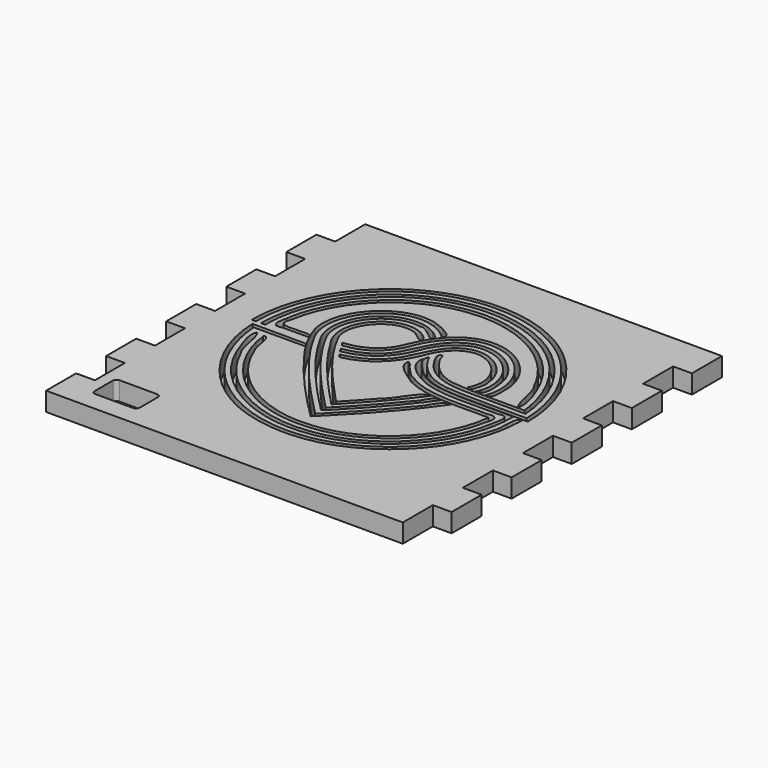
from build123d import *

# Parameters (mm, degrees)
F0_W     = 100
F0_H     = 100
F1_DEPTH = 5
F2_W     = 5
F2_H     = 10
F2_W_2   = 10
F3_DEPTH = 5
F4_W     = 5
F4_H     = 10
F5_DEPTH = 5
F7_DEPTH = 4.7
F8_W     = 12
F8_H     = 8
F9_DEPTH = 5
F10_R    = 1


with BuildPart() as f1:
    # F0 (on Top) → F1 (new body)
    with BuildSketch(Plane.XY):
        Rectangle(F0_W, F0_H)
    extrude(amount=F1_DEPTH)

    # F2 (on face) → F3 (cut)
    with BuildSketch(Plane.XY.offset(5)):
        with Locations((-47.5, 45)):
            Rectangle(F2_W, F2_H)
        with Locations((-50, 25)):
            Rectangle(F2_W_2, F2_H)
        with Locations((-50, 5)):
            Rectangle(F2_W_2, F2_H)
        with Locations((-50, -15)):
            Rectangle(F2_W_2, F2_H)
        with Locations((-50, -35)):
            Rectangle(F2_W_2, F2_H)
    extrude(amount=-F3_DEPTH, mode=Mode.SUBTRACT)

    # F4 (on face) → F5 (cut)
    with BuildSketch(Plane.XY.offset(5)):
        with Locations((47.5, -45)):
            Rectangle(F4_W, F4_H)
        with Locations((47.5, -25)):
            Rectangle(F4_W, F4_H)
        with Locations((47.5, -5)):
            Rectangle(F4_W, F4_H)
        with Locations((47.5, 15)):
            Rectangle(F4_W, F4_H)
        with Locations((47.5, 35)):
            Rectangle(F4_W, F4_H)
    extrude(amount=-F5_DEPTH, mode=Mode.SUBTRACT)

    # F6 (on face) → F7 (cut)
    with BuildSketch(Plane.XY.offset(5)):
        with BuildLine():
            add(Edge.make_bspline(
                [(-36.5395562195, 1.6876631507), (-35.3572678265, 1.5749111306), (-35.3377593665, 1.6597291445), (-35.3989568963, 2.8725999949)],
                knots=[0, 0, 0, 0, 1, 1, 1, 1], degree=3))
            add(Edge.make_bspline(
                [(-35.3989568963, 2.8725999949), (-35.1816590716, 17.512665054), (-24.8415175873, 31.2447338924), (-10.8813866528, 35.6124949842)],
                knots=[0, 0, 0, 0, 1, 1, 1, 1], degree=3))
            add(Edge.make_bspline(
                [(-10.8813866528, 35.6124949842), (2.1847364165, 40.0246794169), (17.5859936415, 35.952114074), (26.6768478813, 25.5539777916)],
                knots=[0, 0, 0, 0, 1, 1, 1, 1], degree=3))
            add(Edge.make_bspline(
                [(26.6768478813, 25.5539777916), (32.295048774, 19.3572851001), (35.5793370518, 11.1215324389), (35.7913961651, 2.7619559891)],
                knots=[0, 0, 0, 0, 1, 1, 1, 1], degree=3))
            add(Edge.make_bspline(
                [(35.7913961651, 2.7619559891), (28.621721093, 2.895578384), (21.4209936363, 2.4702076439), (14.2781943396, 3.1484988125)],
                knots=[0, 0, 0, 0, 1, 1, 1, 1], degree=3))
            add(Edge.make_bspline(
                [(14.2781943396, 3.1484988125), (9.2838404044, 3.6290439664), (4.8619188998, 6.9295454652), (2.8803586356, 11.5200696388)],
                knots=[0, 0, 0, 0, 1, 1, 1, 1], degree=3))
            add(Edge.make_bspline(
                [(2.8803586356, 11.5200696388), (1.2928440741, 9.4131552578), (4.7107359756, 7.1077172619), (5.9871710618, 5.5225294001)],
                knots=[0, 0, 0, 0, 1, 1, 1, 1], degree=3))
            add(Edge.make_bspline(
                [(5.9871710618, 5.5225294001), (11.5143537879, 0.7832400426), (19.2343698443, 1.863891651), (25.9608644582, 1.7043850733)],
                knots=[0, 0, 0, 0, 1, 1, 1, 1], degree=3))
            add(Edge.make_bspline(
                [(25.9608644582, 1.7043850733), (29.6132480872, 1.6970159393), (33.2656270234, 1.6903901479), (36.9180106525, 1.6833335557)],
                knots=[0, 0, 0, 0, 1, 1, 1, 1], degree=3))
            add(Edge.make_bspline(
                [(36.9180106525, 1.6833335557), (37.0693259142, 15.6138457619), (28.5300656415, 29.1217550528), (15.8747993611, 34.9463428483)],
                knots=[0, 0, 0, 0, 1, 1, 1, 1], degree=3))
            add(Edge.make_bspline(
                [(15.8747993611, 34.9463428483), (2.7448633366, 41.3518533228), (-14.0656352883, 38.7972455754), (-24.6773796663, 28.7501649591)],
                knots=[0, 0, 0, 0, 1, 1, 1, 1], degree=3))
            add(Edge.make_bspline(
                [(-24.6773796663, 28.7501649591), (-32.1913546808, 21.909966152), (-36.5760956829, 11.8442472417), (-36.5395562195, 1.6876631507)],
                knots=[0, 0, 0, 0, 1, 1, 1, 1], degree=3))
        make_face()
        with BuildLine():
            add(Edge.make_bspline(
                [(33.0787311734, 6.1918534026), (33.1137716452, 6.6147135869), (33.0010728561, 7.1602593809), (32.8292100588, 7.7466558997)],
                knots=[0.2859726672, 0.2859726672, 0.2859726672, 0.2859726672, 0.501172555, 0.501172555, 0.501172555, 0.501172555], degree=3))
            add(Edge.make_bspline(
                [(33.0787311734, 6.1918534026), (33.1234892028, 5.8623369525), (33.1631998259, 5.5320942247), (33.1978064006, 5.2012608759)],
                knots=[0.9485005007, 0.9485005007, 0.9485005007, 0.9485005007, 1, 1, 1, 1], degree=3))
            add(Edge.make_bspline(
                [(33.1978064006, 5.2012608759), (26.8402518453, 5.3403574443), (20.443765662, 4.8890161736), (14.1213415512, 5.6443310528)],
                knots=[0, 0, 0, 0, 1, 1, 1, 1], degree=3))
            add(Edge.make_bspline(
                [(14.1213415512, 5.6443310528), (10.5936479246, 6.0204004226), (7.6638392312, 8.2218811246), (5.8446397971, 11.1444523875)],
                knots=[0, 0, 0, 0, 0.7773729017, 0.7773729017, 0.7773729017, 0.7773729017], degree=3))
            add(Edge.make_bspline(
                [(4.8817393194, 12.99620988), (5.0065372614, 12.3721532189), (5.3162220017, 11.7410156656), (5.8446397971, 11.1444523875)],
                knots=[0.7452959455, 0.7452959455, 0.7452959455, 0.7452959455, 0.9452348885, 0.9452348885, 0.9452348885, 0.9452348885], degree=3))
            add(Edge.make_bspline(
                [(4.8817393194, 12.99620988), (4.7681025332, 13.2631178085), (4.6630795201, 13.5335573495), (4.5669766219, 13.8068686956)],
                knots=[0.9345258188, 0.9345258188, 0.9345258188, 0.9345258188, 1, 1, 1, 1], degree=3))
            add(Edge.make_bspline(
                [(4.5669766219, 13.8068686956), (2.3844731252, 13.9721962462), (5.4550663729, 9.4091386739), (6.6917903539, 8.2247339954)],
                knots=[0, 0, 0, 0, 1, 1, 1, 1], degree=3))
            add(Edge.make_bspline(
                [(6.6917903539, 8.2247339954), (11.2337701288, 3.3645942197), (18.4090296558, 4.2640879905), (24.4320847524, 4.1457538619)],
                knots=[0, 0, 0, 0, 1, 1, 1, 1], degree=3))
            add(Edge.make_bspline(
                [(24.4320847524, 4.1457538619), (27.7443703894, 4.1380351129), (31.0566560265, 4.1306026259), (34.3689416635, 4.123010583)],
                knots=[0, 0, 0, 0, 1, 1, 1, 1], degree=3))
            add(Edge.make_bspline(
                [(34.3689416635, 4.123010583), (33.5948658318, 18.1382901207), (23.2689835959, 30.9711139078), (9.7103543153, 34.6751868283)],
                knots=[0, 0, 0, 0, 1, 1, 1, 1], degree=3))
            add(Edge.make_bspline(
                [(9.7103543153, 34.6751868283), (-3.6515909355, 38.7506437691), (-19.1041284729, 33.5082837844), (-27.2934902701, 22.2187470844)],
                knots=[0, 0, 0, 0, 1, 1, 1, 1], degree=3))
            add(Edge.make_bspline(
                [(-27.2934902701, 22.2187470844), (-31.718701441, 16.3458180892), (-34.079176703, 9.0276556481), (-34.1087042733, 1.6876631507)],
                knots=[0, 0, 0, 0, 1, 1, 1, 1], degree=3))
            add(Edge.make_bspline(
                [(-34.1087042733, 1.6876631507), (-32.9661503909, 1.6018375885), (-32.8808531228, 1.6024875439), (-32.958495171, 2.825671803)],
                knots=[0, 0, 0, 0, 1, 1, 1, 1], degree=3))
            add(Edge.make_bspline(
                [(-32.958495171, 2.825671803), (-32.7573757818, 17.1621030138), (-22.0785315979, 30.4505512076), (-8.1758647036, 33.860569497)],
                knots=[0, 0, 0, 0, 1, 1, 1, 1], degree=3))
            add(Edge.make_bspline(
                [(-8.1758647036, 33.860569497), (4.0473754804, 37.1782678904), (17.8928148526, 32.7008997299), (25.823186529, 22.8120329956)],
                knots=[0, 0, 0, 0, 1, 1, 1, 1], degree=3))
            add(Edge.make_bspline(
                [(25.823186529, 22.8120329956), (29.3840473124, 18.4887046576), (31.8095355186, 13.2510117478), (32.8292100588, 7.7466558997)],
                knots=[0, 0, 0, 0, 0.8671906957, 0.8671906957, 0.8671906957, 0.8671906957], degree=3))
        make_face()
        with BuildLine():
            add(Edge.make_bspline(
                [(30.6178430197, 6.6233786063), (30.5714202799, 6.9321929712), (30.4514505011, 7.2897525522), (30.2308265701, 7.6850631899)],
                knots=[0.8345712642, 0.8345712642, 0.8345712642, 0.8345712642, 0.9954854291, 0.9954854291, 0.9954854291, 0.9954854291], degree=3))
            add(Edge.make_bspline(
                [(30.6178430197, 6.6233786063), (30.8444613919, 6.1192176539), (31.1200937005, 5.6841262806), (31.4719048249, 5.3480621149)],
                knots=[0.8260664495, 0.8260664495, 0.8260664495, 0.8260664495, 1, 1, 1, 1], degree=3))
            add(Edge.make_bspline(
                [(31.4719048249, 5.3480621149), (31.9976272797, 8.6541433757), (29.885534842, 13.4981839659), (28.1818725364, 16.9047145521)],
                knots=[0, 0, 0, 0, 1, 1, 1, 1], degree=3))
            add(Edge.make_bspline(
                [(28.1818725364, 16.9047145521), (22.1022267332, 28.4967588238), (8.3971486443, 35.3485752328), (-4.524776762, 33.2305125318)],
                knots=[0, 0, 0, 0, 1, 1, 1, 1], degree=3))
            add(Edge.make_bspline(
                [(-4.524776762, 33.2305125318), (-17.9376864984, 31.4247255644), (-29.3374063693, 20.1460175447), (-31.2512774096, 6.7392863741)],
                knots=[0, 0, 0, 0, 1, 1, 1, 1], degree=3))
            add(Edge.make_bspline(
                [(-31.2512774096, 6.7392863741), (-31.686498558, 4.9525921634), (-32.065498463, 3.0072795158), (-30.657212939, 2.7670115632)],
                knots=[0, 0, 0, 0, 0.808571503, 0.808571503, 0.808571503, 0.808571503], degree=3))
            add(Edge.make_bspline(
                [(-29.9886792699, 2.7670115632), (-30.211523829, 2.7670115632), (-30.4343683858, 2.7670115632), (-30.657212939, 2.7670115632)],
                knots=[0.7172296446, 0.7172296446, 0.7172296446, 0.7172296446, 0.8243837938, 0.8243837938, 0.8243837938, 0.8243837938], degree=3))
            add(Edge.make_bspline(
                [(-29.9886792699, 2.7670115632), (-29.7920819398, 2.7927651891), (-29.5743015592, 2.8390261836), (-29.3334789489, 2.9077961388)],
                knots=[0.9171953985, 0.9171953985, 0.9171953985, 0.9171953985, 1, 1, 1, 1], degree=3))
            add(Edge.make_bspline(
                [(-29.3334789489, 2.9077961388), (-27.0585503783, 2.9195713607), (-24.7814255683, 2.8742584372), (-22.5080268568, 2.9541602537)],
                knots=[0, 0, 0, 0, 1, 1, 1, 1], degree=3))
            add(Edge.make_bspline(
                [(-22.5080268568, 2.9541602537), (-22.7903792394, 4.7511617944), (-24.8759356618, 3.7150192295), (-26.1239571357, 3.9871445513)],
                knots=[0, 0, 0, 0, 1, 1, 1, 1], degree=3))
            add(Edge.make_bspline(
                [(-26.1239571357, 3.9871445513), (-28.6291365332, 3.8217710111), (-31.6756795518, 3.4093806088), (-30.1280286122, 6.8263001581)],
                knots=[0, 0, 0, 0, 1, 1, 1, 1], degree=3))
            add(Edge.make_bspline(
                [(-30.1280286122, 6.8263001581), (-28.1439468962, 20.0566540661), (-16.5578639127, 31.0066296326), (-3.2556174226, 32.2937239884)],
                knots=[0, 0, 0, 0, 1, 1, 1, 1], degree=3))
            add(Edge.make_bspline(
                [(-3.2556174226, 32.2937239884), (9.3286296093, 33.882505611), (22.3688164055, 26.7366400263), (27.7956112821, 15.2712188097)],
                knots=[0, 0, 0, 0, 1, 1, 1, 1], degree=3))
            add(Edge.make_bspline(
                [(27.7956112821, 15.2712188097), (28.8324425244, 13.927272591), (29.253719031, 12.0200315237), (29.6392246314, 10.1888854726)],
                knots=[0, 0, 0, 0, 0.4824690597, 0.4824690597, 0.4824690597, 0.4824690597], degree=3))
            add(Edge.make_bspline(
                [(30.1968149289, 7.8003827178), (30.0460015821, 8.6065182625), (29.8595237777, 9.4032614674), (29.6392246314, 10.1888854726)],
                knots=[0.0021334261, 0.0021334261, 0.0021334261, 0.0021334261, 0.0651107959, 0.0651107959, 0.0651107959, 0.0651107959], degree=3))
            add(Edge.make_bspline(
                [(30.1968149289, 7.8003827178), (30.2080216104, 7.7617339687), (30.2193562481, 7.7232912852), (30.2308265701, 7.6850631899)],
                knots=[0.7016448742, 0.7016448742, 0.7016448742, 0.7016448742, 0.7130842346, 0.7130842346, 0.7130842346, 0.7130842346], degree=3))
        make_face()
        with BuildLine():
            add(Edge.make_bspline(
                [(14.395805774, -7.4933288828), (10.4220406492, -12.4549920754), (6.1097016967, -17.1329542815), (1.6311116368, -21.6412042265)],
                knots=[0, 0, 0, 0, 0.9014475668, 0.9014475668, 0.9014475668, 0.9014475668], degree=3))
            add(Edge.make_bspline(
                [(0.7087175187, -22.5650570089), (1.0001438782, -22.4308038791), (1.3048935523, -22.1402155174), (1.6311116368, -21.6412042265)],
                knots=[0.7690580389, 0.7690580389, 0.7690580389, 0.7690580389, 0.9481885224, 0.9481885224, 0.9481885224, 0.9481885224], degree=3))
            add(Edge.make_bspline(
                [(0.7087175187, -22.5650570089), (0.5248937486, -22.7482676036), (0.3408123109, -22.9312080919), (0.1564849477, -23.1138862412)],
                knots=[0.9631806328, 0.9631806328, 0.9631806328, 0.9631806328, 1, 1, 1, 1], degree=3))
            add(Edge.make_bspline(
                [(0.1564849477, -23.1138862412), (-7.9000156299, -14.8525206421), (-16.1436484731, -6.4234472945), (-21.5759297247, 3.8672068864)],
                knots=[0, 0, 0, 0, 1, 1, 1, 1], degree=3))
            add(Edge.make_bspline(
                [(-21.5759297247, 3.8672068864), (-25.8933233747, 11.8375787457), (-19.6714823346, 22.3087304844), (-11.0311823797, 23.6084560323)],
                knots=[0, 0, 0, 0, 1, 1, 1, 1], degree=3))
            add(Edge.make_bspline(
                [(-11.0311823797, 23.6084560323), (-7.2505881149, 24.2774047365), (-3.2862160116, 22.8272677638), (-0.6510075108, 20.08054427)],
                knots=[0, 0, 0, 0, 1, 1, 1, 1], degree=3))
            add(Edge.make_bspline(
                [(-0.6510075108, 20.08054427), (-0.2027980191, 20.7944929527), (-0.4329080556, 21.439368272), (-1.0092664374, 22.0075165578)],
                knots=[0, 0, 0, 0, 0.3277615305, 0.3277615305, 0.3277615305, 0.3277615305], degree=3))
            add(Edge.make_bspline(
                [(-3.1147823229, 23.3266372647), (-2.3754454937, 22.8755729092), (-1.6709884233, 22.401861189), (-1.0092664374, 22.0075165578)],
                knots=[0.5331176851, 0.5331176851, 0.5331176851, 0.5331176851, 0.7928971249, 0.7928971249, 0.7928971249, 0.7928971249], degree=3))
            add(Edge.make_bspline(
                [(-3.1147823229, 23.3266372647), (-4.2004927381, 23.825565879), (-5.3590728001, 24.2104341661), (-6.0601597337, 24.4690181752)],
                knots=[0.6168766742, 0.6168766742, 0.6168766742, 0.6168766742, 1, 1, 1, 1], degree=3))
            add(Edge.make_bspline(
                [(-6.0601597337, 24.4690181752), (-15.9054001438, 27.0057966706), (-25.9592288581, 16.7519745504), (-23.7935402017, 6.9546933446)],
                knots=[0, 0, 0, 0, 1, 1, 1, 1], degree=3))
            add(Edge.make_bspline(
                [(-23.7935402017, 6.9546933446), (-22.0417652367, 0.5632050138), (-17.6013666952, -4.6421559046), (-13.5921401568, -9.7664619808)],
                knots=[0, 0, 0, 0, 1, 1, 1, 1], degree=3))
            add(Edge.make_bspline(
                [(-13.5921401568, -9.7664619808), (-9.305868345, -14.9892506219), (-4.6467130986, -19.8924864333), (0.1606929987, -24.635218443)],
                knots=[0, 0, 0, 0, 1, 1, 1, 1], degree=3))
            add(Edge.make_bspline(
                [(0.1606929987, -24.635218443), (0.8372698805, -23.9870181003), (1.4936911039, -23.3182866736), (2.1551411523, -22.654797126)],
                knots=[0, 0, 0, 0, 1, 1, 1, 1], degree=3))
            add(Edge.make_bspline(
                [(2.1551411523, -22.654797126), (8.5138285541, -16.2685694455), (14.6133367145, -9.5626012226), (19.7264353999, -2.1227070519)],
                knots=[0, 0, 0, 0, 1, 1, 1, 1], degree=3))
            add(Edge.make_bspline(
                [(19.7264353999, -2.1227070519), (17.0207247994, -2.0753400814), (16.343292886, -5.9399564581), (14.395805774, -7.4933288828)],
                knots=[0, 0, 0, 0, 1, 1, 1, 1], degree=3))
        make_face()
        with BuildLine():
            add(Edge.make_bspline(
                [(16.8151746263, -2.0431281012), (15.8746010853, -1.7950325509), (15.2320820091, -2.2131325841), (14.6975347425, -2.881010058)],
                knots=[0, 0, 0, 0, 0.391067305, 0.391067305, 0.391067305, 0.391067305], degree=3))
            add(Edge.make_bspline(
                [(14.4844551303, -3.1670281729), (14.5556349311, -3.0718076845), (14.6266620349, -2.976468647), (14.6975347425, -2.881010058)],
                knots=[0.930672239, 0.930672239, 0.930672239, 0.930672239, 0.9464185935, 0.9464185935, 0.9464185935, 0.9464185935], degree=3))
            add(Edge.make_bspline(
                [(14.4844551303, -3.1670281729), (13.7617885562, -4.2016970613), (13.2047665054, -5.6259759735), (12.2682317258, -6.245577246)],
                knots=[0.4443799068, 0.4443799068, 0.4443799068, 0.4443799068, 1, 1, 1, 1], degree=3))
            add(Edge.make_bspline(
                [(12.2682317258, -6.245577246), (8.4798990021, -10.9273528195), (4.4222383462, -15.3891585943), (0.1580016669, -19.6412000444)],
                knots=[0, 0, 0, 0, 1, 1, 1, 1], degree=3))
            add(Edge.make_bspline(
                [(0.1580016669, -19.6412000444), (-7.1016661909, -12.0818051102), (-14.5241959921, -4.3461572731), (-19.4241153883, 5.0138343704)],
                knots=[0, 0, 0, 0, 1, 1, 1, 1], degree=3))
            add(Edge.make_bspline(
                [(-19.4241153883, 5.0138343704), (-23.5331760234, 12.6435915583), (-15.6868818341, 22.8063476452), (-7.3157849826, 21.1339165205)],
                knots=[0, 0, 0, 0, 1, 1, 1, 1], degree=3))
            add(Edge.make_bspline(
                [(-7.3157849826, 21.1339165205), (-6.3622326594, 21.4042775688), (-5.4190088808, 20.7152079228), (-4.5517645834, 19.9680355014)],
                knots=[0, 0, 0, 0, 0.4170819022, 0.4170819022, 0.4170819022, 0.4170819022], degree=3))
            add(Edge.make_bspline(
                [(-2.7889391141, 18.584357107), (-3.3269241133, 19.1399232361), (-3.919898073, 19.5993133232), (-4.5517645834, 19.9680355014)],
                knots=[0.0100883651, 0.0100883651, 0.0100883651, 0.0100883651, 0.1453183493, 0.1453183493, 0.1453183493, 0.1453183493], degree=3))
            add(Edge.make_bspline(
                [(-2.7889391141, 18.584357107), (-2.3117017403, 18.3551880284), (-1.889024425, 18.3914162064), (-1.5400161158, 18.955390188)],
                knots=[0.723590292, 0.723590292, 0.723590292, 0.723590292, 1, 1, 1, 1], degree=3))
            add(Edge.make_bspline(
                [(-1.5400161158, 18.955390188), (-2.1714565423, 19.7316210561), (-2.9134805491, 20.37223473), (-3.7303677367, 20.8808800991)],
                knots=[0, 0, 0, 0, 0.178159851, 0.178159851, 0.178159851, 0.178159851], degree=3))
            add(Edge.make_bspline(
                [(-5.6713555629, 21.8013258224), (-4.9966877018, 21.5198110907), (-4.3453942668, 21.1977982856), (-3.7303677367, 20.8808800991)],
                knots=[0.5074908328, 0.5074908328, 0.5074908328, 0.5074908328, 0.6946637769, 0.6946637769, 0.6946637769, 0.6946637769], degree=3))
            add(Edge.make_bspline(
                [(-5.6713555629, 21.8013258224), (-9.1847385326, 23.0134208792), (-13.4182246771, 22.2938902618), (-16.307899491, 19.853565746)],
                knots=[0.311239384, 0.311239384, 0.311239384, 0.311239384, 1, 1, 1, 1], degree=3))
            add(Edge.make_bspline(
                [(-16.307899491, 19.853565746), (-21.1785910707, 16.3700668245), (-23.2446600921, 9.2260689818), (-20.1148861709, 3.9410028759)],
                knots=[0, 0, 0, 0, 1, 1, 1, 1], degree=3))
            add(Edge.make_bspline(
                [(-20.1148861709, 3.9410028759), (-14.9166752318, -5.5483003388), (-7.3699344846, -13.4958594655), (0.1577656181, -21.1663662795)],
                knots=[0, 0, 0, 0, 1, 1, 1, 1], degree=3))
            add(Edge.make_bspline(
                [(0.1577656181, -21.1663662795), (0.6945640648, -20.6578899352), (1.2110923482, -20.128699487), (1.7328474937, -19.6049714803)],
                knots=[0, 0, 0, 0, 1, 1, 1, 1], degree=3))
            add(Edge.make_bspline(
                [(1.7328474937, -19.6049714803), (6.5150285149, -14.7542509503), (11.1003082383, -9.6827349819), (15.2018777691, -4.2394397905)],
                knots=[0, 0, 0, 0, 0.8824087548, 0.8824087548, 0.8824087548, 0.8824087548], degree=3))
            add(Edge.make_bspline(
                [(16.3004991085, -2.7562636326), (15.8880858248, -3.1499607804), (15.5372437619, -3.6757780254), (15.2018777691, -4.2394397905)],
                knots=[0.2923302654, 0.2923302654, 0.2923302654, 0.2923302654, 0.5228790716, 0.5228790716, 0.5228790716, 0.5228790716], degree=3))
            add(Edge.make_bspline(
                [(16.3004991085, -2.7562636326), (16.4730074202, -2.5192683764), (16.6445735267, -2.2815605338), (16.8151746263, -2.0431281012)],
                knots=[0.962057272, 0.962057272, 0.962057272, 0.962057272, 1, 1, 1, 1], degree=3))
        make_face()
        with BuildLine():
            add(Edge.make_bspline(
                [(13.994640126, -1.7653150826), (12.912994742, -1.8758050351), (12.0317580591, -2.5154576739), (11.2362505879, -3.393563566)],
                knots=[0, 0, 0, 0, 0.336657409, 0.336657409, 0.336657409, 0.336657409], degree=3))
            add(Edge.make_bspline(
                [(10.1326831819, -4.797189123), (10.5044205586, -4.3323740014), (10.8723852337, -3.8645664329), (11.2362505879, -3.393563566)],
                knots=[0.7748118653, 0.7748118653, 0.7748118653, 0.7748118653, 0.8726070899, 0.8726070899, 0.8726070899, 0.8726070899], degree=3))
            add(Edge.make_bspline(
                [(10.1326831819, -4.797189123), (9.032080846, -6.3456937996), (7.9989148884, -8.1119561019), (6.655127704, -9.1376101316)],
                knots=[0.4989524772, 0.4989524772, 0.4989524772, 0.4989524772, 1, 1, 1, 1], degree=3))
            add(Edge.make_bspline(
                [(6.655127704, -9.1376101316), (4.5582085586, -11.5437217697), (2.3883156055, -13.8865835908), (0.1569439055, -16.1685138476)],
                knots=[0, 0, 0, 0, 1, 1, 1, 1], degree=3))
            add(Edge.make_bspline(
                [(0.1569439055, -16.1685138476), (-6.3543563227, -9.1743126704), (-13.1164727192, -2.0898638875), (-17.4363141438, 6.5292137311)],
                knots=[0, 0, 0, 0, 1, 1, 1, 1], degree=3))
            add(Edge.make_bspline(
                [(-17.4363141438, 6.5292137311), (-20.5277500786, 13.064229121), (-12.4687533905, 21.5431491247), (-5.9133617797, 18.0275888626)],
                knots=[0, 0, 0, 0, 1, 1, 1, 1], degree=3))
            add(Edge.make_bspline(
                [(-5.9133617797, 18.0275888626), (-5.8285846668, 17.9410463003), (-5.7297945876, 17.8477180381), (-5.6208961518, 17.7508977167)],
                knots=[0, 0, 0, 0, 0.0849061809, 0.0849061809, 0.0849061809, 0.0849061809], degree=3))
            add(Edge.make_bspline(
                [(-4.5793794364, 16.944796297), (-4.9027737724, 17.256376603), (-5.2520061825, 17.5245085154), (-5.6208961518, 17.7508977167)],
                knots=[0.0583364372, 0.0583364372, 0.0583364372, 0.0583364372, 0.1668502422, 0.1668502422, 0.1668502422, 0.1668502422], degree=3))
            add(Edge.make_bspline(
                [(-4.5793794364, 16.944796297), (-3.4941181774, 16.2110865786), (-2.446405988, 15.8345047274), (-3.4656281204, 17.5268903968)],
                knots=[0.3173444969, 0.3173444969, 0.3173444969, 0.3173444969, 1, 1, 1, 1], degree=3))
            add(Edge.make_bspline(
                [(-3.4656281204, 17.5268903968), (-3.7456159621, 17.8356551093), (-4.0445195803, 18.1126039279), (-4.3590685054, 18.3588598983)],
                knots=[0, 0, 0, 0, 0.0822149283, 0.0822149283, 0.0822149283, 0.0822149283], degree=3))
            add(Edge.make_bspline(
                [(-5.3164052831, 18.9903046554), (-5.016234297, 18.7935646054), (-4.6859908857, 18.571178786), (-4.3590685054, 18.3588598983)],
                knots=[0.1913266092, 0.1913266092, 0.1913266092, 0.1913266092, 0.356201019, 0.356201019, 0.356201019, 0.356201019], degree=3))
            add(Edge.make_bspline(
                [(-5.3164052831, 18.9903046554), (-8.8006258092, 20.9036400311), (-13.5803367124, 19.7416857194), (-16.1926016164, 16.6935785163)],
                knots=[0.1620293302, 0.1620293302, 0.1620293302, 0.1620293302, 1, 1, 1, 1], degree=3))
            add(Edge.make_bspline(
                [(-16.1926016164, 16.6935785163), (-19.6212546215, 13.3937490292), (-20.1386069641, 7.7759977086), (-17.3323128236, 3.9166124175)],
                knots=[0, 0, 0, 0, 1, 1, 1, 1], degree=3))
            add(Edge.make_bspline(
                [(-17.3323128236, 3.9166124175), (-12.6288367156, -4.1397436213), (-6.2381227, -11.0402010424), (0.1779175222, -17.7499610632)],
                knots=[0, 0, 0, 0, 1, 1, 1, 1], degree=3))
            add(Edge.make_bspline(
                [(0.1779175222, -17.7499610632), (0.537224631, -17.3552715056), (0.9110531994, -16.9741113458), (1.2811068641, -16.5896005131)],
                knots=[0, 0, 0, 0, 1, 1, 1, 1], degree=3))
            add(Edge.make_bspline(
                [(1.2811068641, -16.5896005131), (4.9618510564, -12.7615470024), (8.5368570386, -8.8154522058), (11.8171709866, -4.6365972414)],
                knots=[0, 0, 0, 0, 0.8156075, 0.8156075, 0.8156075, 0.8156075], degree=3))
            add(Edge.make_bspline(
                [(12.7764923672, -3.3965055941), (12.4401953779, -3.771030018), (12.1245089854, -4.1932821473), (11.8171709866, -4.6365972414)],
                knots=[0.336681938, 0.336681938, 0.336681938, 0.336681938, 0.4902116467, 0.4902116467, 0.4902116467, 0.4902116467], degree=3))
            add(Edge.make_bspline(
                [(12.7764923672, -3.3965055941), (13.1877823244, -2.8568353902), (13.5939627689, -2.3131848696), (13.994640126, -1.7653150826)],
                knots=[0.8958390374, 0.8958390374, 0.8958390374, 0.8958390374, 1, 1, 1, 1], degree=3))
        make_face()
        with BuildLine():
            add(Edge.make_bspline(
                [(33.2272520072, 0.6889032198), (33.0946018849, 0.2306216197), (33.0933501157, -0.369831049), (33.120037232, -1.0100103853)],
                knots=[0.2859018101, 0.2859018101, 0.2859018101, 0.2859018101, 0.5228541461, 0.5228541461, 0.5228541461, 0.5228541461], degree=3))
            add(Edge.make_bspline(
                [(33.2272520072, 0.6889032198), (33.2392593457, 0.9748302383), (33.2483386598, 1.260855528), (33.2546505194, 1.5468785752)],
                knots=[0.8924341182, 0.8924341182, 0.8924341182, 0.8924341182, 1, 1, 1, 1], degree=3))
            add(Edge.make_bspline(
                [(33.2546505194, 1.5468785752), (26.5011534238, 1.6847310773), (19.6928160433, 1.1210230668), (12.9939809056, 2.1326738084)],
                knots=[0, 0, 0, 0, 1, 1, 1, 1], degree=3))
            add(Edge.make_bspline(
                [(12.9939809056, 2.1326738084), (8.359285102, 2.8655584197), (4.3166996584, 5.9628298752), (2.2231302473, 10.1331214765)],
                knots=[0, 0, 0, 0, 1, 1, 1, 1], degree=3))
            add(Edge.make_bspline(
                [(2.2231302473, 10.1331214765), (1.9091592816, 8.6238536103), (2.5182666679, 7.2275367089), (3.5833679404, 6.005206503)],
                knots=[0, 0, 0, 0, 0.3808191331, 0.3808191331, 0.3808191331, 0.3808191331], degree=3))
            add(Edge.make_bspline(
                [(4.0920763938, 5.4669022932), (3.9186946082, 5.6425696334), (3.7490795605, 5.8220751041), (3.5833679404, 6.005206503)],
                knots=[0.6797284476, 0.6797284476, 0.6797284476, 0.6797284476, 0.7369677408, 0.7369677408, 0.7369677408, 0.7369677408], degree=3))
            add(Edge.make_bspline(
                [(4.0920763938, 5.4669022932), (5.8504679038, 3.7420067779), (8.4494205038, 2.4160321611), (10.387415496, 1.6851876886)],
                knots=[0.437964346, 0.437964346, 0.437964346, 0.437964346, 1, 1, 1, 1], degree=3))
            add(Edge.make_bspline(
                [(10.387415496, 1.6851876886), (16.7288267533, -0.2143327107), (23.4241094269, 0.6855524413), (29.9506289369, 0.467818771)],
                knots=[0, 0, 0, 0, 1, 1, 1, 1], degree=3))
            add(Edge.make_bspline(
                [(29.9506289369, 0.467818771), (33.1245561859, 1.4106878003), (32.0152065804, -1.7468554091), (31.6469516733, -3.8527298614)],
                knots=[0, 0, 0, 0, 1, 1, 1, 1], degree=3))
            add(Edge.make_bspline(
                [(31.6469516733, -3.8527298614), (29.4475587203, -17.510101689), (17.4040436561, -28.756222303), (3.6282682461, -30.0164085028)],
                knots=[0, 0, 0, 0, 1, 1, 1, 1], degree=3))
            add(Edge.make_bspline(
                [(3.6282682461, -30.0164085028), (-9.5444221769, -31.6394528676), (-23.1718805672, -24.0236924822), (-28.6814854004, -11.9438784616)],
                knots=[0, 0, 0, 0, 1, 1, 1, 1], degree=3))
            add(Edge.make_bspline(
                [(-28.6814854004, -11.9438784616), (-29.6808858065, -10.5944386745), (-30.1091467092, -8.6953365797), (-30.4905223834, -6.8659095627)],
                knots=[0, 0, 0, 0, 0.4927695337, 0.4927695337, 0.4927695337, 0.4927695337], degree=3))
            add(Edge.make_bspline(
                [(-31.1118168356, -4.1870271643), (-30.9463660397, -5.090803871), (-30.7385216365, -5.9845771663), (-30.4905223834, -6.8659095627)],
                knots=[0.0488200286, 0.0488200286, 0.0488200286, 0.0488200286, 0.1182315315, 0.1182315315, 0.1182315315, 0.1182315315], degree=3))
            add(Edge.make_bspline(
                [(-31.1118168356, -4.1870271643), (-31.3550372371, -3.3643218233), (-31.6574232648, -2.6448021347), (-32.090969647, -2.113520389)],
                knots=[0.7457680737, 0.7457680737, 0.7457680737, 0.7457680737, 1, 1, 1, 1], degree=3))
            add(Edge.make_bspline(
                [(-32.090969647, -2.113520389), (-33.3242974348, -4.0737672764), (-30.9730354673, -8.7932839095), (-30.1138896173, -11.4553278275)],
                knots=[0, 0, 0, 0, 1, 1, 1, 1], degree=3))
            add(Edge.make_bspline(
                [(-30.1138896173, -11.4553278275), (-24.7127555452, -24.223437638), (-10.8880345005, -32.4979994447), (2.9270531251, -31.1863799466)],
                knots=[0, 0, 0, 0, 1, 1, 1, 1], degree=3))
            add(Edge.make_bspline(
                [(2.9270531251, -31.1863799466), (16.6743759723, -30.2504769381), (29.0420569073, -19.7444186024), (32.2320476764, -6.3500914914)],
                knots=[0, 0, 0, 0, 1, 1, 1, 1], degree=3))
            add(Edge.make_bspline(
                [(32.2320476764, -6.3500914914), (32.6844007915, -4.5987925042), (32.9669260187, -2.8103326815), (33.120037232, -1.0100103853)],
                knots=[0, 0, 0, 0, 0.6791464607, 0.6791464607, 0.6791464607, 0.6791464607], degree=3))
        make_face()
        with BuildLine():
            add(Edge.make_bspline(
                [(1.8738825289, 6.2852865238), (2.200381591, 5.7256525586), (2.672463284, 5.1932840787), (3.2107288258, 4.6920618984)],
                knots=[0.3092512155, 0.3092512155, 0.3092512155, 0.3092512155, 0.5341071995, 0.5341071995, 0.5341071995, 0.5341071995], degree=3))
            add(Edge.make_bspline(
                [(1.8738825289, 6.2852865238), (1.453335932, 6.7501540529), (1.0628251094, 7.1058648082), (0.7031650638, 7.2403475948)],
                knots=[0.7312244746, 0.7312244746, 0.7312244746, 0.7312244746, 1, 1, 1, 1], degree=3))
            add(Edge.make_bspline(
                [(0.7031650638, 7.2403475948), (0.4943358096, 6.4089000388), (0.7753341624, 5.6116935308), (1.3264487426, 4.8621763503)],
                knots=[0, 0, 0, 0, 0.2989230271, 0.2989230271, 0.2989230271, 0.2989230271], degree=3))
            add(Edge.make_bspline(
                [(2.1325118982, 3.9584047419), (1.854151844, 4.2505034099), (1.5852523931, 4.5519220659), (1.3264487363, 4.8621763453)],
                knots=[0.7744444309, 0.7744444309, 0.7744444309, 0.7744444309, 0.8620659525, 0.8620659525, 0.8620659525, 0.8620659525], degree=3))
            add(Edge.make_bspline(
                [(2.1325118982, 3.9584047419), (3.5561647436, 2.5908330614), (5.6492611657, 1.4220353168), (6.827069314, 0.5490111129)],
                knots=[0.4224444209, 0.4224444209, 0.4224444209, 0.4224444209, 1, 1, 1, 1], degree=3))
            add(Edge.make_bspline(
                [(6.827069314, 0.5490111129), (13.846417432, -2.9720524183), (21.8629304974, -1.7516514703), (29.4414815194, -1.9727358135)],
                knots=[0, 0, 0, 0, 1, 1, 1, 1], degree=3))
            add(Edge.make_bspline(
                [(29.4414815194, -1.9727358135), (28.0423127867, -15.3321408412), (16.3192281092, -26.6450825076), (2.9218074918, -27.6363420112)],
                knots=[0, 0, 0, 0, 1, 1, 1, 1], degree=3))
            add(Edge.make_bspline(
                [(2.9218074918, -27.6363420112), (-9.7296111461, -29.016823938), (-22.6248686689, -21.1336995651), (-27.1988013803, -9.2645321193)],
                knots=[0, 0, 0, 0, 1, 1, 1, 1], degree=3))
            add(Edge.make_bspline(
                [(-27.1988013803, -9.2645321193), (-28.513016946, -7.5927110611), (-28.3786474542, -1.3108859369), (-30.1241941096, -2.5488629006)],
                knots=[0, 0, 0, 0, 1, 1, 1, 1], degree=3))
            add(Edge.make_bspline(
                [(-30.1241941096, -2.5488629006), (-30.1082415813, -2.6744404627), (-30.0914262074, -2.7998411258), (-30.0737544341, -2.9250582361)],
                knots=[0, 0, 0, 0, 0.0097610514, 0.0097610514, 0.0097610514, 0.0097610514], degree=3))
            add(Edge.make_bspline(
                [(-29.6462645878, -5.2382131043), (-29.7367811813, -4.3516745084), (-29.8315096391, -3.5008100275), (-30.0737544341, -2.9250582361)],
                knots=[0.4371892261, 0.4371892261, 0.4371892261, 0.4371892261, 0.7178481148, 0.7178481148, 0.7178481148, 0.7178481148], degree=3))
            add(Edge.make_bspline(
                [(-29.6462645878, -5.2382131043), (-26.972814753, -16.9206489736), (-16.8965316065, -26.5632710335), (-4.9843098179, -28.4198128669)],
                knots=[0.0704617651, 0.0704617651, 0.0704617651, 0.0704617651, 1, 1, 1, 1], degree=3))
            add(Edge.make_bspline(
                [(-4.9843098179, -28.4198128669), (-2.4028589688, -28.878127667), (0.2223838612, -28.9263416913), (2.8331967414, -28.745372505)],
                knots=[0, 0, 0, 0, 1, 1, 1, 1], degree=3))
            add(Edge.make_bspline(
                [(2.8331967414, -28.745372505), (16.072620461, -27.8097510657), (27.8267950656, -17.2614902071), (30.2130138432, -4.2130956701)],
                knots=[0, 0, 0, 0, 1, 1, 1, 1], degree=3))
            add(Edge.make_bspline(
                [(30.2130138432, -4.2130956701), (31.1411314646, -1.819947945), (30.8272287894, -0.2441377439), (28.1747394512, -0.8924361665)],
                knots=[0, 0, 0, 0, 1, 1, 1, 1], degree=3))
            add(Edge.make_bspline(
                [(28.1747394512, -0.8924361665), (20.7077977478, -0.6610933206), (12.576582796, -1.9175585841), (5.9567920968, 2.3240953108)],
                knots=[0, 0, 0, 0, 1, 1, 1, 1], degree=3))
            add(Edge.make_bspline(
                [(5.9567920968, 2.3240953108), (4.956736702, 2.7208810242), (4.0399747615, 3.7037511674), (3.2107288258, 4.6920618984)],
                knots=[0, 0, 0, 0, 0.4650807099, 0.4650807099, 0.4650807099, 0.4650807099], degree=3))
        make_face()
        with BuildLine():
            add(Edge.make_bspline(
                [(35.6342721586, -0.0369670287), (35.4909959887, -0.6641121945), (35.4621927619, -1.4182496985), (35.4525326863, -2.2077411149)],
                knots=[0.2897582737, 0.2897582737, 0.2897582737, 0.2897582737, 0.5192019403, 0.5192019403, 0.5192019403, 0.5192019403], degree=3))
            add(Edge.make_bspline(
                [(35.6342721586, -0.0369670287), (35.6645520699, 0.490671172), (35.6851106227, 1.0188073115), (35.6966622242, 1.5468785752)],
                knots=[0.8357763432, 0.8357763432, 0.8357763432, 0.8357763432, 1, 1, 1, 1], degree=3))
            add(Edge.make_bspline(
                [(35.6966622242, 1.5468785752), (34.8991642991, 1.3308750704), (34.5535066087, 0.6506714854), (34.3979456192, -0.243514511)],
                knots=[0, 0, 0, 0, 0.3351623539, 0.3351623539, 0.3351623539, 0.3351623539], degree=3))
            add(Edge.make_bspline(
                [(34.2727440968, -1.7742691971), (34.3252982344, -1.264976811), (34.366967194, -0.7545482135), (34.3979456192, -0.243514511)],
                knots=[0.6800556828, 0.6800556828, 0.6800556828, 0.6800556828, 0.8277157357, 0.8277157357, 0.8277157357, 0.8277157357], degree=3))
            add(Edge.make_bspline(
                [(34.2727440968, -1.7742691971), (34.2306787138, -3.3103736612), (34.3048600711, -5.0267836349), (33.673240605, -6.1376503826)],
                knots=[0.5091724929, 0.5091724929, 0.5091724929, 0.5091724929, 1, 1, 1, 1], degree=3))
            add(Edge.make_bspline(
                [(33.673240605, -6.1376503826), (30.5749287515, -20.1221342329), (17.8975217503, -31.2657965257), (3.6119940185, -32.4767785163)],
                knots=[0, 0, 0, 0, 1, 1, 1, 1], degree=3))
            add(Edge.make_bspline(
                [(3.6119940185, -32.4767785163), (-10.3894097915, -34.0873634462), (-24.7709882692, -26.0147805772), (-30.7617872731, -13.2729693255)],
                knots=[0, 0, 0, 0, 1, 1, 1, 1], degree=3))
            add(Edge.make_bspline(
                [(-30.7617872731, -13.2729693255), (-32.6586760567, -9.3635693753), (-33.8143608578, -5.0892468891), (-34.112733, -0.752916775)],
                knots=[0, 0, 0, 0, 1, 1, 1, 1], degree=3))
            add(Edge.make_bspline(
                [(-34.112733, -0.752916775), (-29.5439321795, -0.7449906034), (-24.9751310658, -0.7370644318), (-20.4063304214, -0.7291387295)],
                knots=[0, 0, 0, 0, 1, 1, 1, 1], degree=3))
            add(Edge.make_bspline(
                [(-20.4063304214, -0.7291387295), (-20.8200502993, 0.8639950137), (-22.5234254044, 0.158833701), (-23.7475186626, 0.3078006761)],
                knots=[0, 0, 0, 0, 1, 1, 1, 1], degree=3))
            add(Edge.make_bspline(
                [(-23.7475186626, 0.3078006761), (-27.5929348388, 0.3142162292), (-31.438351015, 0.3206322515), (-35.2837671913, 0.3270482739)],
                knots=[0, 0, 0, 0, 1, 1, 1, 1], degree=3))
            add(Edge.make_bspline(
                [(-35.2837671913, 0.3270482739), (-34.8901136909, -14.2853934436), (-24.4729445071, -27.8878348841), (-10.4848753429, -32.1052714855)],
                knots=[0, 0, 0, 0, 1, 1, 1, 1], degree=3))
            add(Edge.make_bspline(
                [(-10.4848753429, -32.1052714855), (-6.4654419227, -33.3770536415), (-2.220160948, -33.8993221814), (1.9884892881, -33.6963483661)],
                knots=[0, 0, 0, 0, 1, 1, 1, 1], degree=3))
            add(Edge.make_bspline(
                [(1.9884892881, -33.6963483661), (16.8094259228, -33.169931374), (30.4433749513, -22.2686203424), (34.3224311326, -7.9799479525)],
                knots=[0, 0, 0, 0, 1, 1, 1, 1], degree=3))
            add(Edge.make_bspline(
                [(34.3224311326, -7.9799479525), (34.8712828307, -6.0926663597), (35.2357720432, -4.1589772609), (35.4525326935, -2.2077411153)],
                knots=[0, 0, 0, 0, 0.610119544, 0.610119544, 0.610119544, 0.610119544], degree=3))
        make_face()
        with BuildLine():
            add(Edge.make_bspline(
                [(23.0194820357, 6.6972184632), (23.124013543, 7.0083744969), (23.189198873, 7.3598428964), (23.2250301094, 7.7351394943)],
                knots=[0.3140401323, 0.3140401323, 0.3140401323, 0.3140401323, 0.438802388, 0.438802388, 0.438802388, 0.438802388], degree=3))
            add(Edge.make_bspline(
                [(23.0194820357, 6.6972184632), (22.9084311058, 6.2444028496), (22.7693877357, 5.7941205777), (22.6010405628, 5.3480621149)],
                knots=[0.9456495597, 0.9456495597, 0.9456495597, 0.9456495597, 1, 1, 1, 1], degree=3))
            add(Edge.make_bspline(
                [(22.6010405628, 5.3480621149), (25.1808991384, 5.045695797), (24.1306978259, 9.4161614778), (24.3634569646, 11.0367604145)],
                knots=[0, 0, 0, 0, 1, 1, 1, 1], degree=3))
            add(Edge.make_bspline(
                [(24.3634569646, 11.0367604145), (23.6372525814, 19.9217204975), (13.7032160546, 27.3945911087), (5.0635130264, 24.0391221495)],
                knots=[0, 0, 0, 0, 1, 1, 1, 1], degree=3))
            add(Edge.make_bspline(
                [(5.0635130264, 24.0391221495), (-0.1726454565, 22.1048655027), (-3.0555390767, 16.9111122725), (-5.0228829145, 12.0176886767)],
                knots=[0, 0, 0, 0, 1, 1, 1, 1], degree=3))
            add(Edge.make_bspline(
                [(-5.0228829145, 12.0176886767), (-6.8018396268, 7.9637146995), (-11.0597391231, 5.6204708829), (-15.3749416958, 5.4211358795)],
                knots=[0, 0, 0, 0, 1, 1, 1, 1], degree=3))
            add(Edge.make_bspline(
                [(-15.3749416958, 5.4211358795), (-15.0930571873, 4.6127560089), (-14.705083054, 4.1536692401), (-13.8263113648, 4.5236107463)],
                knots=[0, 0, 0, 0, 1, 1, 1, 1], degree=3))
            add(Edge.make_bspline(
                [(-13.8263113648, 4.5236107463), (-8.8155001821, 5.0106822038), (-4.7254346711, 8.793521044), (-3.1503823603, 13.4666393047)],
                knots=[0, 0, 0, 0, 1, 1, 1, 1], degree=3))
            add(Edge.make_bspline(
                [(-3.1503823603, 13.4666393047), (-1.104252189, 19.0186156023), (3.9399695199, 24.3045517569), (10.3008939887, 23.7296762446)],
                knots=[0, 0, 0, 0, 1, 1, 1, 1], degree=3))
            add(Edge.make_bspline(
                [(10.3008939887, 23.7296762446), (18.0548997996, 23.2435617585), (24.3761409929, 15.31685416), (23.2250301094, 7.7351394943)],
                knots=[0, 0, 0, 0, 0.9042695267, 0.9042695267, 0.9042695267, 0.9042695267], degree=3))
        make_face()
        with BuildLine():
            add(Edge.make_bspline(
                [(-12.7617988309, 2.2306669122), (-11.8999318487, 2.3553053691), (-11.0640089087, 2.5636603095), (-10.2598958737, 2.846175308)],
                knots=[0, 0, 0, 0, 0.155062315, 0.155062315, 0.155062315, 0.155062315], degree=3))
            add(Edge.make_bspline(
                [(-8.287547398, 3.7184528166), (-8.9598709347, 3.401051251), (-9.6307771375, 3.1154506549), (-10.2598958737, 2.846175308)],
                knots=[0.5224192127, 0.5224192127, 0.5224192127, 0.5224192127, 0.6960852025, 0.6960852025, 0.6960852025, 0.6960852025], degree=3))
            add(Edge.make_bspline(
                [(-8.287547398, 3.7184528166), (-4.8548982217, 5.5652841246), (-2.2010537777, 8.810888267), (-0.8975391353, 12.5241597794)],
                knots=[0.2864779564, 0.2864779564, 0.2864779564, 0.2864779564, 1, 1, 1, 1], degree=3))
            add(Edge.make_bspline(
                [(-0.8975391353, 12.5241597794), (0.8526627967, 17.2698187004), (5.1063687897, 22.0423815538), (10.6286733303, 21.2495161433)],
                knots=[0, 0, 0, 0, 1, 1, 1, 1], degree=3))
            add(Edge.make_bspline(
                [(10.6286733303, 21.2495161433), (16.7704145432, 20.5275526131), (21.6361264974, 14.1984748766), (20.8146573753, 8.1762994592)],
                knots=[0, 0, 0, 0, 0.8625788961, 0.8625788961, 0.8625788961, 0.8625788961], degree=3))
            add(Edge.make_bspline(
                [(20.4921497825, 6.6934376575), (20.6702182932, 7.1209111926), (20.771303651, 7.6285125468), (20.8146573753, 8.1762994592)],
                knots=[0.2912739683, 0.2912739683, 0.2912739683, 0.2912739683, 0.4518310919, 0.4518310919, 0.4518310919, 0.4518310919], degree=3))
            add(Edge.make_bspline(
                [(20.4921497825, 6.6934376575), (20.3547566433, 6.2384975849), (20.1817589242, 5.7882376122), (19.9711659204, 5.3453266706)],
                knots=[0.9338367067, 0.9338367067, 0.9338367067, 0.9338367067, 1, 1, 1, 1], degree=3))
            add(Edge.make_bspline(
                [(19.9711659204, 5.3453266706), (20.9259915998, 5.3366864873), (21.4676571206, 5.8595791993), (21.7532776535, 6.6430376714)],
                knots=[0, 0, 0, 0, 0.3162998581, 0.3162998581, 0.3162998581, 0.3162998581], degree=3))
            add(Edge.make_bspline(
                [(21.9848224393, 7.7058152659), (21.9259281967, 7.3500875134), (21.8489907278, 6.9954997045), (21.7532776535, 6.6430376714)],
                knots=[0.8962247182, 0.8962247182, 0.8962247182, 0.8962247182, 0.943223274, 0.943223274, 0.943223274, 0.943223274], degree=3))
            add(Edge.make_bspline(
                [(21.9848224393, 7.7058152659), (22.1673153839, 9.3745726085), (21.7563864008, 11.5083811527), (21.6032392693, 12.6392206666)],
                knots=[0.4444743228, 0.4444743228, 0.4444743228, 0.4444743228, 1, 1, 1, 1], degree=3))
            add(Edge.make_bspline(
                [(21.6032392693, 12.6392206666), (19.8784029636, 19.7269173496), (11.0626277059, 25.0680936174), (4.365082155, 21.0011557272)],
                knots=[0, 0, 0, 0, 1, 1, 1, 1], degree=3))
            add(Edge.make_bspline(
                [(4.365082155, 21.0011557272), (-0.0476268763, 18.5667693843), (-1.3713102046, 13.504812573), (-3.6907670593, 9.4267954061)],
                knots=[0, 0, 0, 0, 1, 1, 1, 1], degree=3))
            add(Edge.make_bspline(
                [(-3.6907670593, 9.4267954061), (-5.8674936957, 5.7985413147), (-9.8628215115, 3.6034371292), (-14.0054475359, 3.1175937825)],
                knots=[0, 0, 0, 0, 1, 1, 1, 1], degree=3))
            add(Edge.make_bspline(
                [(-14.0054475359, 3.1175937825), (-13.6308577922, 2.7855683781), (-13.5681973933, 1.5888933853), (-12.7617988309, 2.2306669122)],
                knots=[0, 0, 0, 0, 1, 1, 1, 1], degree=3))
        make_face()
        with BuildLine():
            add(Edge.make_bspline(
                [(-10.4953196812, 0.2560975407), (-10.1299456465, 0.3445206709), (-9.7710020115, 0.4466688876), (-9.4186176319, 0.5618146727)],
                knots=[0, 0, 0, 0, 0.0617905329, 0.0617905329, 0.0617905329, 0.0617905329], degree=3))
            add(Edge.make_bspline(
                [(-7.4641922479, 1.3627253287), (-8.1458111101, 1.0785217927), (-8.8184614451, 0.8198572361), (-9.4186176319, 0.5618146727)],
                knots=[0.4852409108, 0.4852409108, 0.4852409108, 0.4852409108, 0.6911791257, 0.6911791257, 0.6911791257, 0.6911791257], degree=3))
            add(Edge.make_bspline(
                [(-7.4641922479, 1.3627253287), (-3.1296882207, 3.516138335), (0.0070487164, 7.7112470933), (1.6452137883, 12.2497110428)],
                knots=[0.1803113253, 0.1803113253, 0.1803113253, 0.1803113253, 1, 1, 1, 1], degree=3))
            add(Edge.make_bspline(
                [(1.6452137883, 12.2497110428), (3.097737998, 16.0950530725), (6.9287190625, 19.9761825413), (11.374071344, 18.6204059611)],
                knots=[0, 0, 0, 0, 1, 1, 1, 1], degree=3))
            add(Edge.make_bspline(
                [(11.374071344, 18.6204059611), (16.5101132224, 17.2980802654), (20.2139817706, 10.9946160826), (17.5906066828, 6.0560569518)],
                knots=[0, 0, 0, 0, 1, 1, 1, 1], degree=3))
            add(Edge.make_bspline(
                [(17.5906066828, 6.0560569518), (18.4410628395, 3.5833997298), (20.0535812109, 8.8920359893), (19.5251556922, 10.3110056034)],
                knots=[0, 0, 0, 0, 1, 1, 1, 1], degree=3))
            add(Edge.make_bspline(
                [(19.5251556922, 10.3110056034), (19.1660517826, 16.5650210812), (11.8004280454, 22.2132194127), (5.8652075069, 19.0406399413)],
                knots=[0, 0, 0, 0, 1, 1, 1, 1], degree=3))
            add(Edge.make_bspline(
                [(5.8652075069, 19.0406399413), (0.3290619654, 16.0245706826), (0.3269548896, 8.6389625749), (-4.376417507, 4.8126794918)],
                knots=[0, 0, 0, 0, 1, 1, 1, 1], degree=3))
            add(Edge.make_bspline(
                [(-4.376417507, 4.8126794918), (-6.5993951614, 2.7032567989), (-9.5163112514, 1.5073701997), (-12.4811607351, 0.8876407217)],
                knots=[0, 0, 0, 0, 1, 1, 1, 1], degree=3))
            add(Edge.make_bspline(
                [(-12.4811607351, 0.8876407217), (-12.0686243862, -0.3202759194), (-11.5072186729, -0.0789617713), (-10.4953196812, 0.2560975407)],
                knots=[0, 0, 0, 0, 1, 1, 1, 1], degree=3))
        make_face()
    extrude(amount=-F7_DEPTH, mode=Mode.SUBTRACT)

    # F8 (on face) → F9 (cut)
    with BuildSketch(Plane.XY.offset(5)):
        with Locations((-36, -40.8)):
            Rectangle(F8_W, F8_H)
    extrude(amount=-F9_DEPTH, mode=Mode.SUBTRACT)

    # F10
    f10_edges = [f1.edges().sort_by_distance(p)[0] for p in [
        (-42, -36.8, 2.5),
        (-30, -36.8, 2.5),
        (-42, -44.8, 2.5),
        (-30, -44.8, 2.5),
    ]]
    fillet(f10_edges, radius=F10_R)


solid = f1.part
